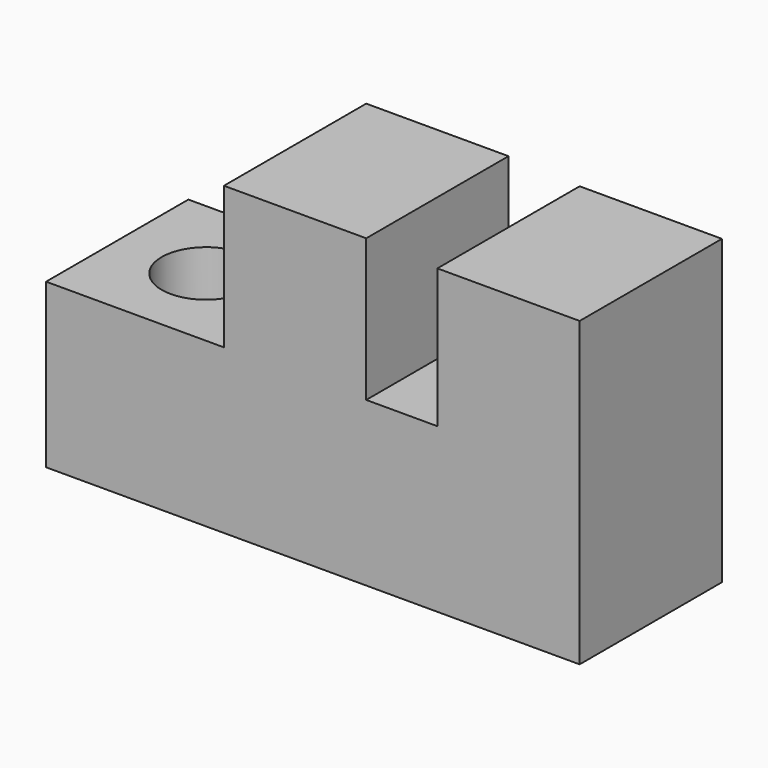
from build123d import *

# Parameters (mm, degrees)
F1_DEPTH = 3.175
F4_D     = 3.175


with BuildPart() as f1:
    # F0 (on Front) → F1 (new body, symmetric)
    with BuildSketch(Plane.XZ):
        Polygon((-12.7, 0), (6.35, 0), (6.35, 10.795), (1.27, 10.795), (1.27, 5.83477201), (-1.27, 5.83477201), (-1.27, 10.91477201), (-6.35, 10.91477201), (-6.35, 5.83477201), (-12.7, 5.83477201), align=None)
    extrude(amount=F1_DEPTH, both=True)

    # F4 (through all)
    with Locations(Plane.XY.offset(5.83477201)):
        with Locations((-9.525, 0)):
            Hole(F4_D / 2)


solid = f1.part
